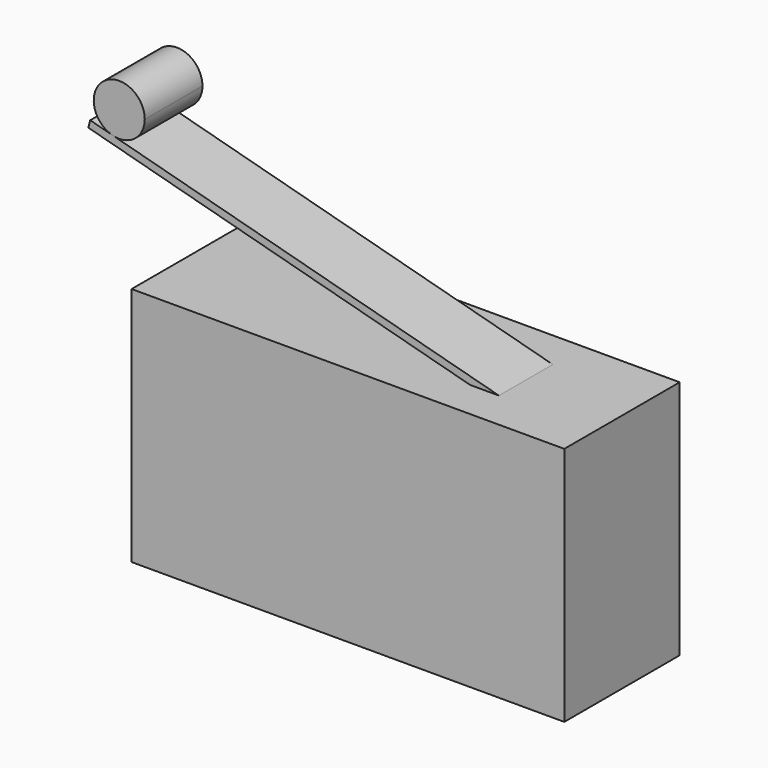
from build123d import *

# Parameters (mm, degrees)
F0_W     = 28.575
F0_H     = 15.875
F1_DEPTH = 9.525
F3_START = -2.54
F3_DEPTH = 4.445
F5_DEPTH = 4.7625


with BuildPart() as f1:
    # F0 (on Front) → F1 (new body)
    with BuildSketch(Plane.XZ):
        Rectangle(F0_W, F0_H)
    extrude(amount=F1_DEPTH)


with BuildPart() as f3:
    # F2 (on face) → F3 (new body)
    with BuildSketch(Plane.XZ.offset(9.525).offset(F3_START)):
        Polygon((-19.1780783894, 14.6926541202), (6.0325, 7.9375), (7.9375, 7.9375), (-19.0504675865, 15.1689041202), align=None)
    extrude(amount=-F3_DEPTH)


with BuildPart() as f5:
    # F4 (on face) → F5 (new body)
    with BuildSketch(Plane.XZ.offset(6.985)):
        with BuildLine():
            ThreePointArc((-17.4731130829, 14.7462532547), (-16.0701477194, 15.0916210747), (-15.4506250494, 16.3969112355))
            ThreePointArc((-15.4506250494, 16.3969112355), (-18.1205526718, 17.7637608334), (-17.6683786385, 14.7985745027))
            Line((-17.6683786385, 14.7985745027), (-17.4731130829, 14.7462532547))
        make_face()
    extrude(amount=-F5_DEPTH)


solid = Compound([f1.part, f3.part, f5.part])
